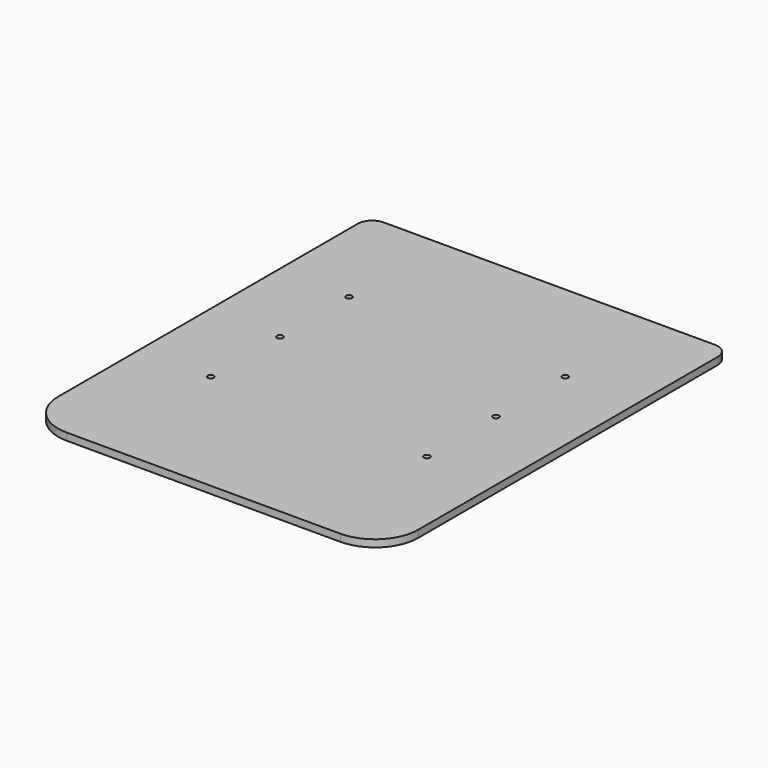
from build123d import *

# Parameters (mm, degrees)
F0_W     = 250
F0_H     = 300
F1_DEPTH = 5
F3_D     = 4.2
F4_R     = 10
F5_R     = 30


with BuildPart() as f1:
    # F0 (on Top) → F1 (new body)
    with BuildSketch(Plane.XY):
        with Locations((125, 150)):
            Rectangle(F0_W, F0_H)
    extrude(amount=F1_DEPTH)

    # F3 (through all)
    with Locations(Plane(origin=(0, 0, 0), x_dir=(1, 0, 0), z_dir=(0, 0, -1))):
        with Locations((50, -220), (50, -160), (200, -220), (200, -160), (200, -100), (50, -100)):
            Hole(F3_D / 2)

    # F4
    f4_edges = [f1.edges().sort_by_distance(p)[0] for p in [
        (0, 300, 2.5),
        (250, 300, 2.5),
    ]]
    fillet(f4_edges, radius=F4_R)

    # F5
    f5_edges = [f1.edges().sort_by_distance(p)[0] for p in [
        (0, 0, 2.5),
        (250, 0, 2.5),
    ]]
    fillet(f5_edges, radius=F5_R)


solid = f1.part
